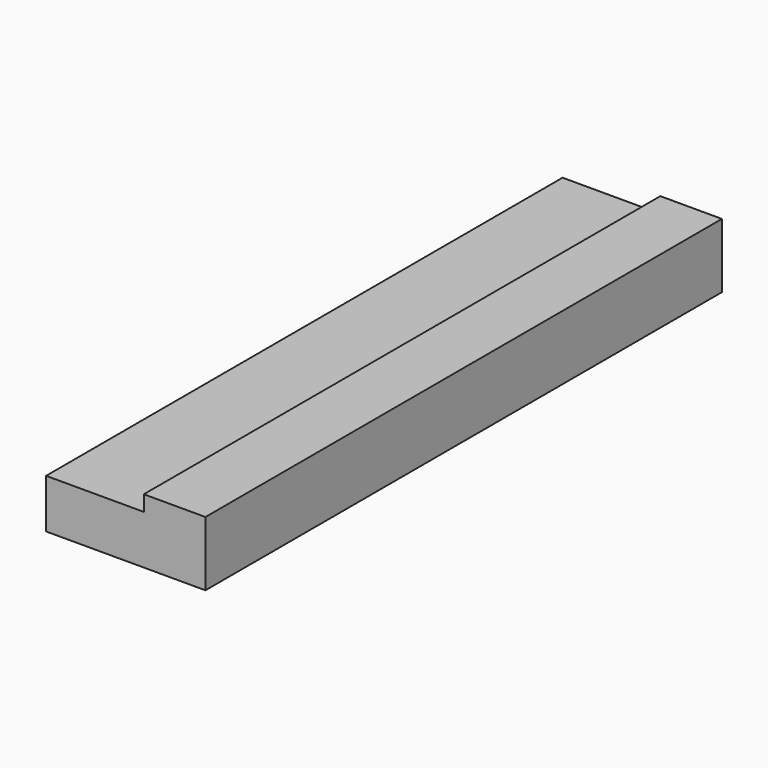
from build123d import *

# Parameters (mm, degrees)
F0_W     = 52.0943142474
F0_H     = 21.1019426874
F1_DEPTH = 105.537
F2_W     = 31.9535313174
F2_H     = 211.074
F3_DEPTH = 5.08


with BuildPart() as f1:
    # F0 (on Front) → F1 (new body, symmetric)
    with BuildSketch(Plane.XZ):
        Rectangle(F0_W, F0_H)
    extrude(amount=F1_DEPTH, both=True)

    # F2 (on face) → F3 (cut)
    with BuildSketch(Plane.XY.offset(10.5509713437)):
        with Locations((-10.070391465, 0)):
            Rectangle(F2_W, F2_H)
    extrude(amount=-F3_DEPTH, mode=Mode.SUBTRACT)


solid = f1.part
